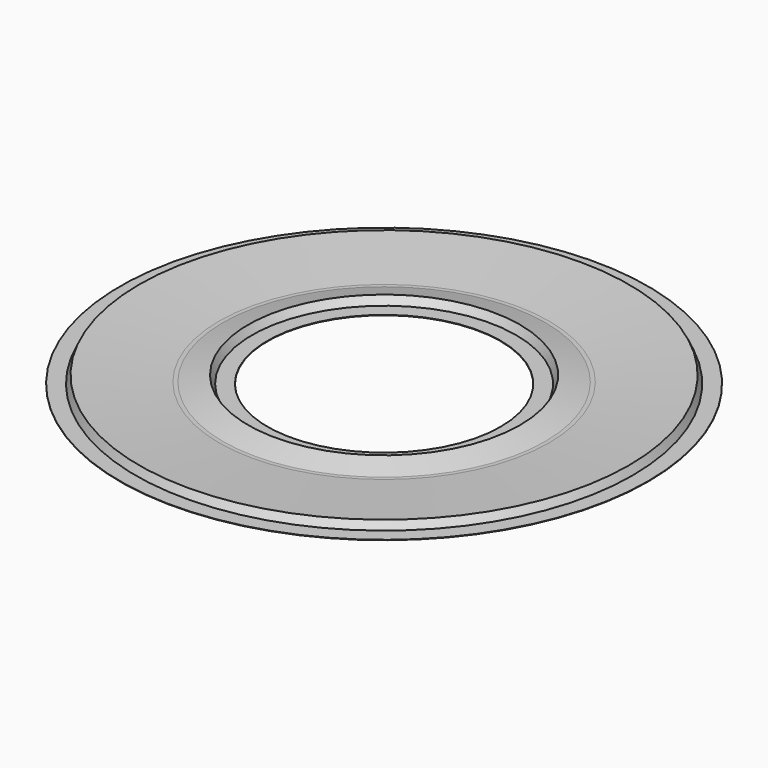
from build123d import *


with BuildPart() as f1:
    # F0 (on Front) → F1 (revolve)
    with BuildSketch(Plane.XZ):
        Polygon((31.542809, 1), (32, 0), (34, 0), (34, 0.05), (32, 0.05), (31.542809, 1.05), (21.25, 0.252174), (20.748493, 0.252174), (17.514867, 1.04967), (17, 0.05), (15.010831, 0.05), (15, 0), (17, 0), (17.515037, 1), (20.75, 0.202174), (21.25, 0.202174), align=None)
    revolve(axis=Axis((0, 0, 5.19455), (0, 0, 1)))


solid = f1.part
